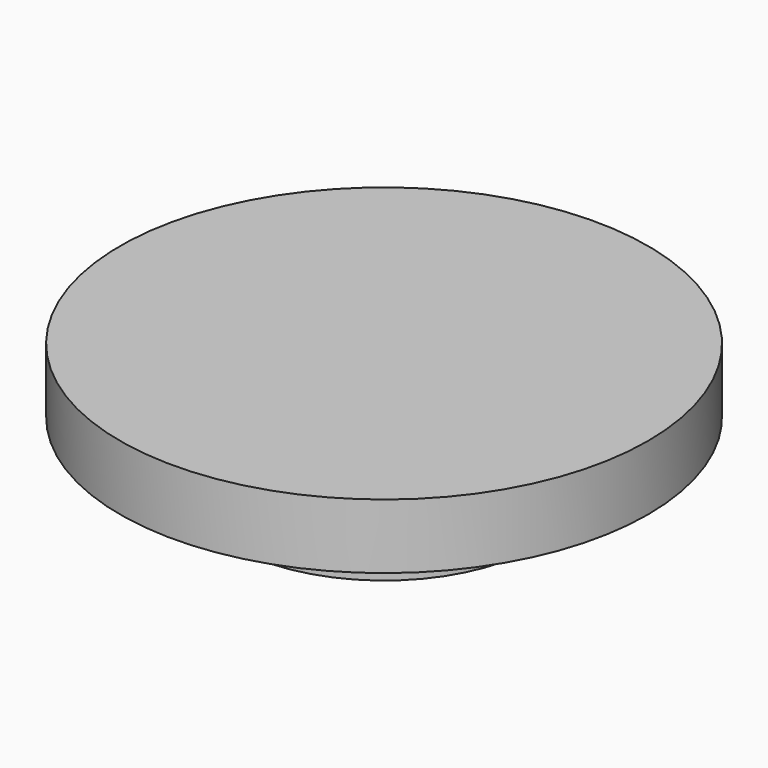
from build123d import *

# Parameters (mm, degrees)
SKETCH_R     = 9.4
PAD_DEPTH    = 4
SKETCH001_R  = 16.3
PAD001_DEPTH = 4


with BuildPart() as part:
    # Sketch → Pad (new body)
    with BuildSketch(Plane.XY):
        Circle(SKETCH_R)
    extrude(amount=PAD_DEPTH)

    # Sketch001 (on Face3 of Pad) → Pad001 (join)
    with BuildSketch(Plane.XY.offset(4)):
        Circle(SKETCH001_R)
    extrude(amount=PAD001_DEPTH)


solid = part.part
